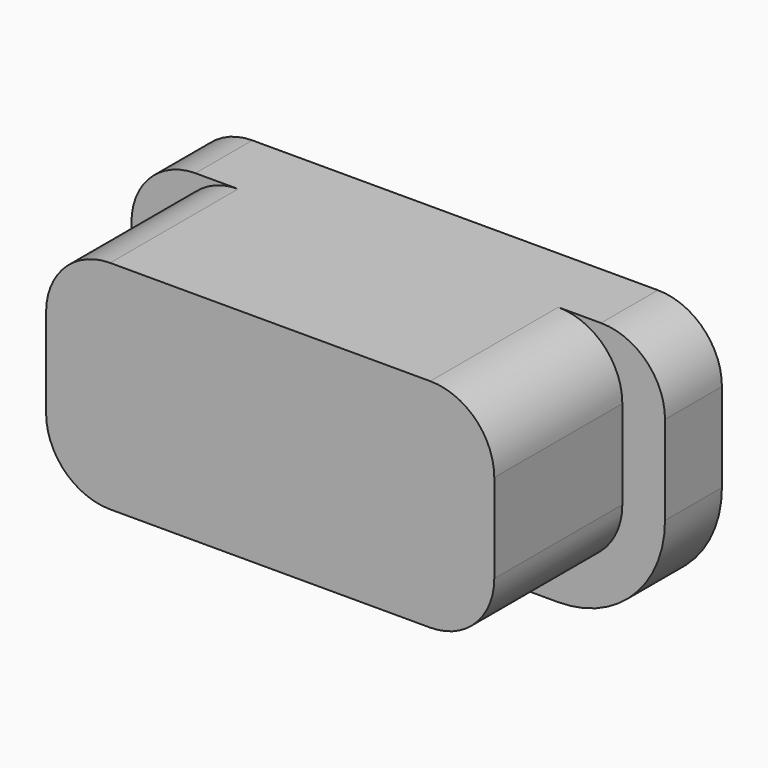
from build123d import *

# Parameters (mm, degrees)
EXTRUDE017_DEPTH = 1
EXTRUDE016_DEPTH = 2.25


with BuildPart() as extrude017:
    # Sketch017 → Extrude017 (new body)
    with BuildSketch(Plane.XZ):
        with BuildLine():
            ThreePointArc((11.7, 16.35), (11.063604, 16.086396), (10.8, 15.45))
            Line((10.8, 14.2), (10.8, 15.45))
            ThreePointArc((10.8, 14.2), (11.23934, 13.13934), (12.3, 12.7))
            Line((16.8, 12.7), (12.3, 12.7))
            ThreePointArc((16.8, 12.7), (17.86066, 13.13934), (18.3, 14.2))
            Line((18.3, 15.45), (18.3, 14.2))
            ThreePointArc((18.3, 15.45), (18.036396, 16.086396), (17.4, 16.35))
            Line((11.7, 16.35), (17.4, 16.35))
        make_face()
    extrude(amount=EXTRUDE017_DEPTH)


with BuildPart() as extrude017_1:
    # Extrude017 placement: moved
    add(extrude017.part.moved(Location((0, 3, 0))))


with BuildPart() as button002:
    # Sketch016 → Extrude016 (new body)
    with BuildSketch(Plane.XZ):
        with BuildLine():
            ThreePointArc((12.3, 16.35), (11.663604, 16.086396), (11.4, 15.45))
            Line((11.4, 14.2), (11.4, 15.45))
            ThreePointArc((11.4, 14.2), (11.663604, 13.563604), (12.3, 13.3))
            Line((16.8, 13.3), (12.3, 13.3))
            ThreePointArc((16.8, 13.3), (17.436396, 13.563604), (17.7, 14.2))
            Line((17.7, 15.45), (17.7, 14.2))
            ThreePointArc((17.7, 15.45), (17.436396, 16.086396), (16.8, 16.35))
            Line((12.3, 16.35), (16.8, 16.35))
        make_face()
    extrude(amount=EXTRUDE016_DEPTH)


with BuildPart() as button002_1:
    # Extrude016 placement: moved
    add(button002.part.moved(Location((0, 2, 0))))

    # Fusion019: union Extrude017
    add(extrude017_1.part)


with BuildPart() as button002_2:
    # Fusion019 placement: moved
    add(button002_1.part.moved(Location((32.5, 0, 0))))


solid = button002_2.part
